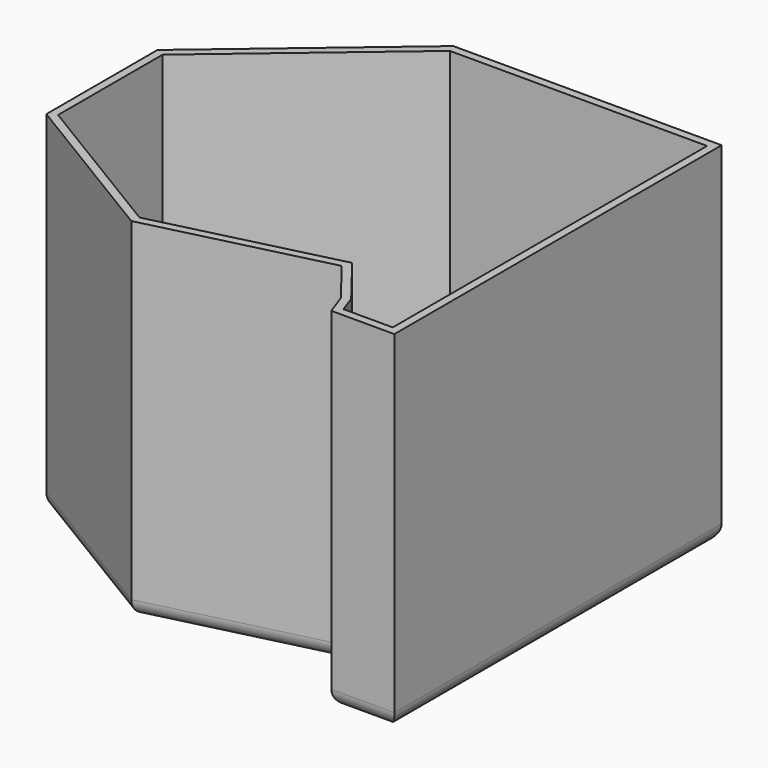
from build123d import *

# Parameters (mm, degrees)
F1_DEPTH = 109.8860576749
F2_T     = -2.54
F3_R     = 5.08
F4_R     = 5.08


with BuildPart() as f1:
    # F0 (on Top) → F1 (new body)
    with BuildSketch(Plane.XY):
        Polygon((84.8518013954, -59.6191361547), (84.8518013954, 69.0497234464), (0.4590898752, 69.0497234464), (-54.9942553043, 22.0465362072), (-54.9942553043, -21.6257423162), (-3.1802803278, -53.0151873827), (52.0924478769, -39.3676012754), (62.5555962324, -52.7877360582), (65.0224879491, -59.6191361547), align=None)
    extrude(amount=F1_DEPTH)

    # F2
    f2_openings = [f1.faces().sort_by_distance(p)[0] for p in [
        (22.309592, 7.913715, 109.886058),
    ]]
    offset(amount=F2_T, openings=f2_openings, kind=Kind.INTERSECTION)

    # F3
    f3_edges = [f1.edges().sort_by_distance(p)[0] for p in [
        (74.558802, -57.079136, 2.54),
        (65.806549, -54.311968, 2.54),
        (58.945027, -44.025799, 2.54),
        (25.158494, -43.401678, 2.54),
        (-27.610013, -35.245657, 2.54),
        (-52.454255, 0.337522, 2.54),
        (-25.531758, 43.689762, 2.54),
        (41.85127, 66.509723, 2.54),
        (82.311801, 4.715294, 2.54),
    ]]
    fillet(f3_edges, radius=F3_R)

    # F4
    f4_edges = [f1.edges().sort_by_distance(p)[0] for p in [
        (84.851801, 4.715294, 0),
        (42.655446, 69.049723, 0),
        (-27.267583, 45.54813, 0),
        (-54.994255, 0.210397, 0),
        (-29.087268, -37.320465, 0),
        (24.456084, -46.191394, 0),
        (57.324022, -46.077669, 0),
        (63.789042, -56.203436, 0),
        (74.937145, -59.619136, 0),
    ]]
    fillet(f4_edges, radius=F4_R)


solid = f1.part
